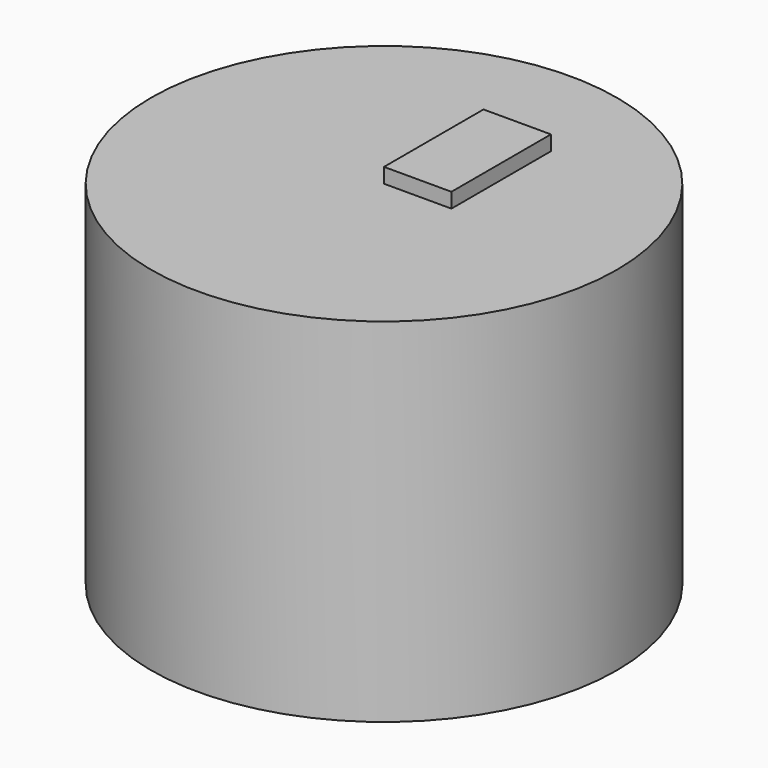
from build123d import *

# Parameters (mm, degrees)
F0_R     = 63.284338
F1_DEPTH = 95.779179
F2_W     = 18.317737
F2_H     = 33.781603
F3_DEPTH = 4.034901


with BuildPart() as f1:
    # F0 (on Top) → F1 (new body)
    with BuildSketch(Plane.XY):
        with Locations((0, 50.233468)):
            Circle(F0_R)
    extrude(amount=F1_DEPTH)

    # F2 (on face) → F3 (join)
    with BuildSketch(Plane.XY.offset(95.779179)):
        with Locations((9.158868, 67.124269)):
            Rectangle(F2_W, F2_H)
    extrude(amount=F3_DEPTH)


solid = f1.part
